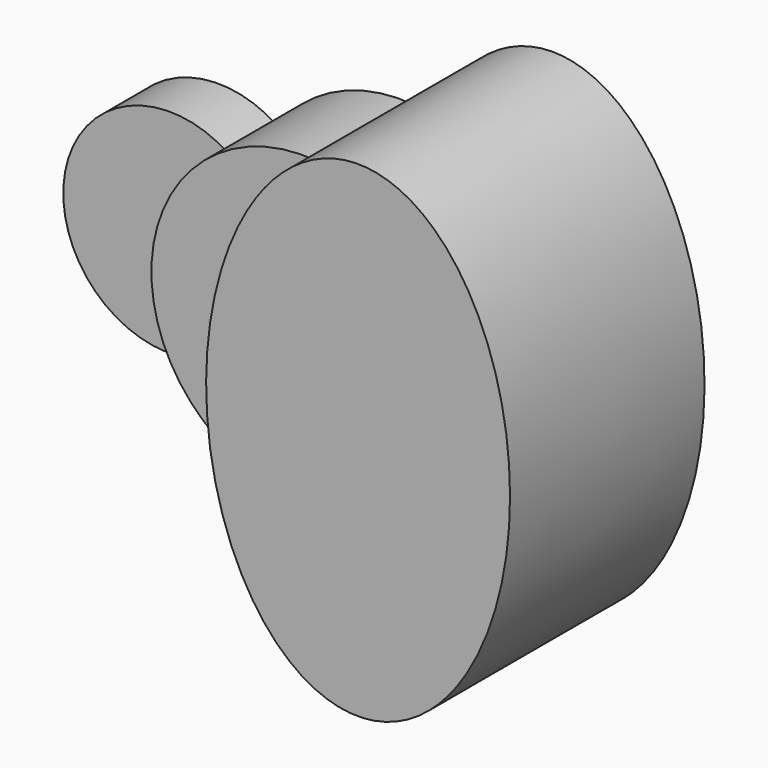
from build123d import *

# Parameters (mm, degrees)
F1_DEPTH = 25.4
F2_DEPTH = 50.8
F3_DEPTH = 101.6


with BuildPart() as f1:
    # F0 (on Front) → F1 (new body)
    with BuildSketch(Plane.XZ):
        with BuildLine():
            ThreePointArc((-51.59375, -37.0180356169), (-63.5, 0), (-51.59375, 37.0180356169))
            ThreePointArc((-51.59375, 37.0180356169), (-120.65, 0), (-51.59375, -37.0180356169))
        make_face()
    extrude(amount=F1_DEPTH)

    # F0 (on Front) → F2 (join)
    with BuildSketch(Plane.XZ):
        with BuildLine():
            ThreePointArc((-51.59375, 37.0180356169), (-37.0237934934, 21.0006510316), (-31.75, 0))
            ThreePointArc((-31.75, 0), (-37.0237934934, -21.0006510316), (-51.59375, -37.0180356169))
            ThreePointArc((-51.59375, -37.0180356169), (-22.9128106244, -59.2220660674), (13.2439655959, -62.1035214404))
            add(Edge.make_bspline(
                [(13.2439655959, 62.1035214404), (-16.734145965, 0), (13.2439655959, -62.1035214404)],
                knots=[0.9131508081, 0.9131508081, 0.9131508081, 2.2284418454, 2.2284418454, 2.2284418454], degree=2, weights=[1, 0.7914336127, 1]))
            ThreePointArc((13.2439655959, 62.1035214404), (-22.9128106244, 59.2220660674), (-51.59375, 37.0180356169))
        make_face()
        with BuildLine():
            ThreePointArc((-51.59375, -37.0180356169), (-37.0237934934, -21.0006510316), (-31.75, 0))
            ThreePointArc((-31.75, 0), (-37.0237934934, 21.0006510316), (-51.59375, 37.0180356169))
            ThreePointArc((-51.59375, 37.0180356169), (-63.5, 0), (-51.59375, -37.0180356169))
        make_face()
    extrude(amount=F2_DEPTH)

    # F0 (on Front) → F3 (join)
    with BuildSketch(Plane.XZ):
        with BuildLine():
            add(Edge.make_bspline(
                [(63.5, 101.6), (32.3093875408, 101.6), (13.2439655959, 62.1035214404)],
                knots=[0, 0, 0, 0.9131508081, 0.9131508081, 0.9131508081], degree=2, weights=[1, 0.8975675831, 1]))
            ThreePointArc((13.2439655959, 62.1035214404), (49.3621404284, 39.9453262889), (63.5, 0))
            Line((63.5, 0), (63.5, 101.6))
        make_face()
        with BuildLine():
            ThreePointArc((63.5, 0), (49.3621404284, -39.9453262889), (13.2439655959, -62.1035214404))
            add(Edge.make_bspline(
                [(13.2439655959, -62.1035214404), (75.5537087854, -191.1861844445), (120.4955415237, -44.7930922222), (165.437374262, 101.6), (63.5, 101.6)],
                knots=[2.2284418454, 2.2284418454, 2.2284418454, 4.2558135763, 4.2558135763, 6.2831853072, 6.2831853072, 6.2831853072], degree=2, weights=[1, 0.5287358074, 1, 0.5287358074, 1]))
            Line((63.5, 101.6), (63.5, 0))
        make_face()
        with BuildLine():
            ThreePointArc((63.5, 0), (49.3621404284, 39.9453262889), (13.2439655959, 62.1035214404))
            add(Edge.make_bspline(
                [(13.2439655959, 62.1035214404), (-16.734145965, 0), (13.2439655959, -62.1035214404)],
                knots=[0.9131508081, 0.9131508081, 0.9131508081, 2.2284418454, 2.2284418454, 2.2284418454], degree=2, weights=[1, 0.7914336127, 1]))
            ThreePointArc((13.2439655959, -62.1035214404), (49.3621404284, -39.9453262889), (63.5, 0))
        make_face()
    extrude(amount=F3_DEPTH)


solid = f1.part
